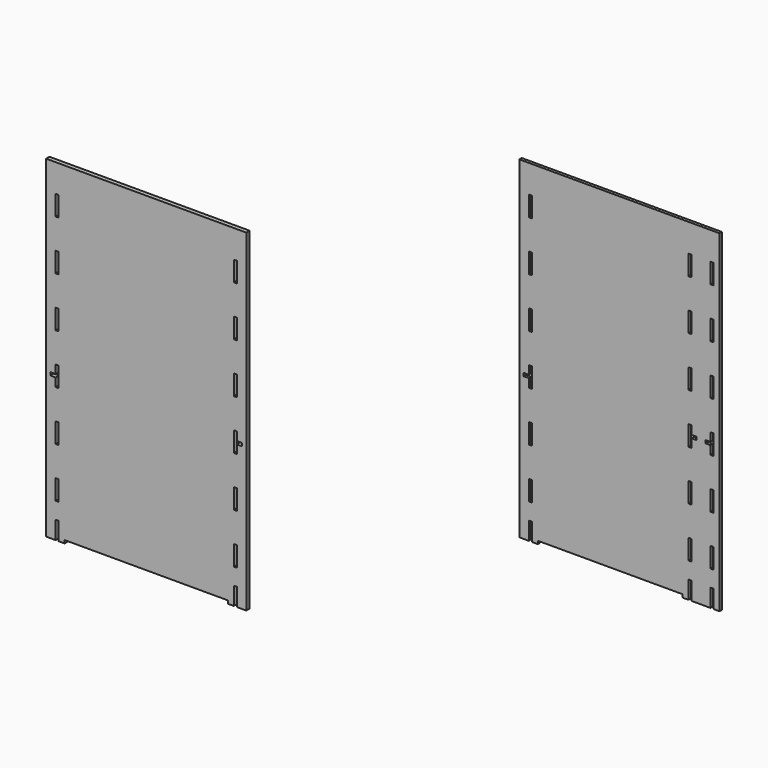
from build123d import *

# Parameters (mm, degrees)
F0_W     = 18
F0_H     = 120
F2_DEPTH = 25
F1_W     = 18
F1_H     = 120
F3_DEPTH = 18


with BuildPart() as f2:
    # F0 (on Front) → F2 (new body)
    with BuildSketch(Plane.XZ):
        Polygon((715.490359, 915.3857), (-334.509641, 915.3857), (-352.509641, 915.3857), (-409.509641, 915.3857), (-409.509641, -1079.1143), (-352.509641, -1079.1143), (-352.509641, -971.6143), (-334.509641, -971.6143), (-334.509641, -1079.1143), (-298.509641, -1079.1143), (-298.509641, -1061.1143), (190.490359, -1061.1143), (679.490359, -1061.1143), (679.490359, -1079.1143), (715.490359, -1079.1143), (715.490359, -971.6143), (733.490359, -971.6143), (733.490359, -1079.1143), (790.490359, -1079.1143), (790.490359, 915.3857), (733.490359, 915.3857), align=None)
        with Locations((-343.509641, -811.6143)):
            Rectangle(F0_W, F0_H, mode=Mode.SUBTRACT)
        with Locations((-343.509641, -511.6143)):
            Rectangle(F0_W, F0_H, mode=Mode.SUBTRACT)
        Polygon((-383.509641, -220.6143), (-383.509641, -202.6143), (-352.509641, -202.6143), (-352.509641, -151.6143), (-334.509641, -151.6143), (-334.509641, -211.6143), (-334.509641, -271.6143), (-352.509641, -271.6143), (-352.509641, -220.6143), align=None, mode=Mode.SUBTRACT)
        with Locations((724.490359, -811.6143)):
            Rectangle(F0_W, F0_H, mode=Mode.SUBTRACT)
        with Locations((724.490359, -511.6143)):
            Rectangle(F0_W, F0_H, mode=Mode.SUBTRACT)
        Polygon((715.490359, -271.6143), (715.490359, -211.6143), (715.490359, -151.6143), (733.490359, -151.6143), (733.490359, -202.6143), (764.490359, -202.6143), (764.490359, -220.6143), (733.490359, -220.6143), (733.490359, -271.6143), align=None, mode=Mode.SUBTRACT)
        with Locations((-343.509641, 88.3857)):
            Rectangle(F0_W, F0_H, mode=Mode.SUBTRACT)
        with Locations((-343.509641, 388.3857)):
            Rectangle(F0_W, F0_H, mode=Mode.SUBTRACT)
        with Locations((-343.509641, 688.3857)):
            Rectangle(F0_W, F0_H, mode=Mode.SUBTRACT)
        with Locations((724.490359, 88.3857)):
            Rectangle(F0_W, F0_H, mode=Mode.SUBTRACT)
        with Locations((724.490359, 388.3857)):
            Rectangle(F0_W, F0_H, mode=Mode.SUBTRACT)
        with Locations((724.490359, 688.3857)):
            Rectangle(F0_W, F0_H, mode=Mode.SUBTRACT)
    extrude(amount=F2_DEPTH)


with BuildPart() as f3:
    # F1 (on Front) → F3 (new body)
    with BuildSketch(Plane.XZ):
        Polygon((2478.43837, -165.032655), (2478.43837, -57.532655), (2496.43837, -57.532655), (2496.43837, -165.032655), (2532.43837, -165.032655), (2532.43837, -147.032655), (2965.93837, -147.032655), (3399.43837, -147.032655), (3399.43837, -165.032655), (3435.43837, -165.032655), (3435.43837, -57.532655), (3453.43837, -57.532655), (3453.43837, -165.032655), (3510.43837, -165.032655), (3567.43837, -165.032655), (3567.43837, -57.532655), (3585.43837, -57.532655), (3585.43837, -165.032655), (3621.43837, -165.032655), (3621.43837, -147.032655), (3621.43837, 1829.467345), (3585.43837, 1829.467345), (3567.43837, 1829.467345), (3453.43837, 1829.467345), (3435.43837, 1829.467345), (2496.43837, 1829.467345), (2478.43837, 1829.467345), (2421.43837, 1829.467345), (2421.43837, -165.032655), align=None)
        with Locations((2487.43837, 102.467345)):
            Rectangle(F1_W, F1_H, mode=Mode.SUBTRACT)
        with Locations((2487.43837, 402.467345)):
            Rectangle(F1_W, F1_H, mode=Mode.SUBTRACT)
        Polygon((2447.43837, 693.467345), (2447.43837, 711.467345), (2478.43837, 711.467345), (2478.43837, 762.467345), (2496.43837, 762.467345), (2496.43837, 642.467345), (2478.43837, 642.467345), (2478.43837, 693.467345), align=None, mode=Mode.SUBTRACT)
        with Locations((3444.43837, 102.467345)):
            Rectangle(F1_W, F1_H, mode=Mode.SUBTRACT)
        with Locations((3576.43837, 102.467345)):
            Rectangle(F1_W, F1_H, mode=Mode.SUBTRACT)
        with Locations((3444.43837, 402.467345)):
            Rectangle(F1_W, F1_H, mode=Mode.SUBTRACT)
        with Locations((3576.43837, 402.467345)):
            Rectangle(F1_W, F1_H, mode=Mode.SUBTRACT)
        Polygon((3453.43837, 693.467345), (3453.43837, 642.467345), (3435.43837, 642.467345), (3435.43837, 762.467345), (3453.43837, 762.467345), (3453.43837, 711.467345), (3484.43837, 711.467345), (3484.43837, 693.467345), align=None, mode=Mode.SUBTRACT)
        Polygon((3585.43837, 642.467345), (3567.43837, 642.467345), (3567.43837, 693.467345), (3536.43837, 693.467345), (3536.43837, 711.467345), (3567.43837, 711.467345), (3567.43837, 762.467345), (3585.43837, 762.467345), align=None, mode=Mode.SUBTRACT)
        with Locations((2487.43837, 1002.467345)):
            Rectangle(F1_W, F1_H, mode=Mode.SUBTRACT)
        with Locations((2487.43837, 1302.467345)):
            Rectangle(F1_W, F1_H, mode=Mode.SUBTRACT)
        with Locations((2487.43837, 1602.467345)):
            Rectangle(F1_W, F1_H, mode=Mode.SUBTRACT)
        with Locations((3444.43837, 1002.467345)):
            Rectangle(F1_W, F1_H, mode=Mode.SUBTRACT)
        with Locations((3576.43837, 1002.467345)):
            Rectangle(F1_W, F1_H, mode=Mode.SUBTRACT)
        with Locations((3444.43837, 1302.467345)):
            Rectangle(F1_W, F1_H, mode=Mode.SUBTRACT)
        with Locations((3576.43837, 1302.467345)):
            Rectangle(F1_W, F1_H, mode=Mode.SUBTRACT)
        with Locations((3444.43837, 1602.467345)):
            Rectangle(F1_W, F1_H, mode=Mode.SUBTRACT)
        with Locations((3576.43837, 1602.467345)):
            Rectangle(F1_W, F1_H, mode=Mode.SUBTRACT)
    extrude(amount=F3_DEPTH)


solid = Compound([f2.part, f3.part])
